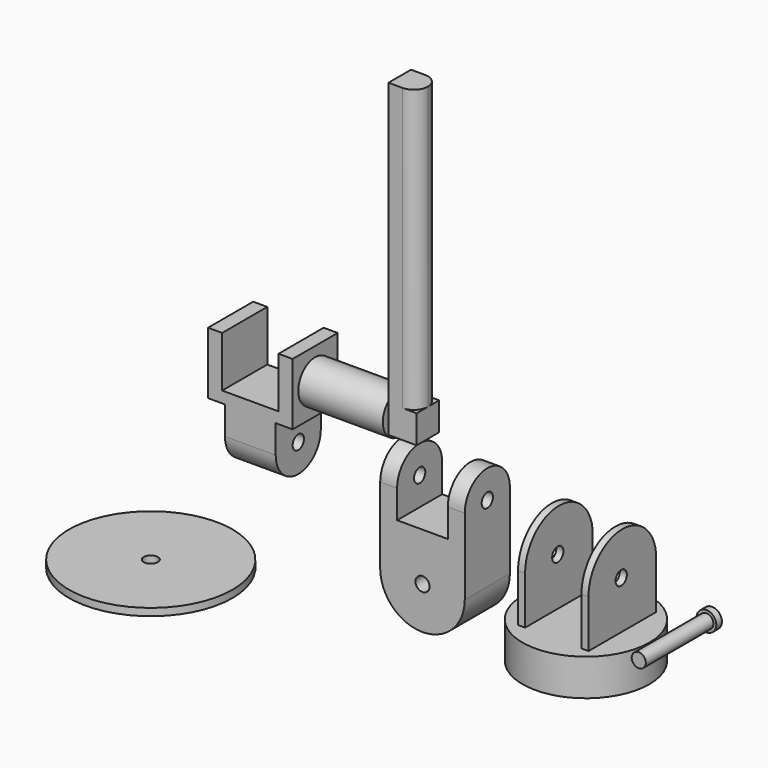
from build123d import *

# Parameters (mm, degrees)
F0_R      = 28.575
F1_DEPTH  = 16.51
F2_W      = 3.175
F2_H      = 38.1
F3_DEPTH  = 21.59
F5_DEPTH  = 3.175
F7_DEPTH  = 3.175
F8_R      = 3.175
F9_DEPTH  = 25.4
F10_R     = 3.175
F11_DEPTH = 25.4
F12_W     = 38.1
F12_H     = 34.29
F13_DEPTH = 25.4
F14_R     = 3.175
F15_DEPTH = 25.4
F16_W     = 22.86
F16_H     = 12.7
F17_DEPTH = 25.4
F19_DEPTH = 7.62
F21_DEPTH = 7.62
F22_R     = 3.175
F23_DEPTH = 12.7
F24_R     = 3.175
F25_DEPTH = 25.4
F26_W     = 22.86
F26_H     = 12.7
F27_DEPTH = 25.4
F29_DEPTH = 22.86
F30_R     = 3.175
F31_DEPTH = 25.4
F32_W     = 38.1
F32_H     = 5.08
F33_DEPTH = 25.4
F34_W     = 6.35
F34_H     = 25.4
F35_DEPTH = 22.86
F36_W     = 6.35
F36_H     = 25.4
F37_DEPTH = 22.86
F38_R     = 36.83
F39_DEPTH = 3.302
F40_R     = 3.175
F41_DEPTH = 25.4
F42_R     = 4.445
F43_DEPTH = 3.175
F44_R     = 3.175
F45_DEPTH = 38.1
F46_R     = 9.525
F47_DEPTH = 38.1
F48_W     = 12.7
F48_H     = 12.7
F49_DEPTH = 12.7
F51_DEPTH = 127


with BuildPart() as f1:
    # F0 (on Top) → F1 (new body)
    with BuildSketch(Plane.XY):
        Circle(F0_R)
    extrude(amount=F1_DEPTH)

    # F2 (on face) → F3 (join)
    with BuildSketch(Plane.XY.offset(16.51)):
        with Locations((-14.2875, 0.635)):
            Rectangle(F2_W, F2_H)
        with Locations((14.2875, 0.635)):
            Rectangle(F2_W, F2_H)
    extrude(amount=F3_DEPTH)

    # F4 (on face) → F5 (join)
    with BuildSketch(Plane(origin=(-15.875, 0, 0), x_dir=(0, -1, 0), z_dir=(-1, 0, 0))):
        with BuildLine():
            Line((-19.685, 38.1), (18.415, 38.1))
            ThreePointArc((18.415, 38.1), (-0.635, 57.15), (-19.685, 38.1))
        make_face()
    extrude(amount=-F5_DEPTH)

    # F6 (on face) → F7 (join)
    with BuildSketch(Plane.YZ.offset(15.875)):
        with BuildLine():
            Line((-18.415, 38.1), (19.685, 38.1))
            ThreePointArc((19.685, 38.1), (0.635, 57.15), (-18.415, 38.1))
        make_face()
    extrude(amount=-F7_DEPTH)

    # F8 (on face) → F9 (cut)
    with BuildSketch(Plane(origin=(-15.875, 0, 0), x_dir=(0, -1, 0), z_dir=(-1, 0, 0))):
        with Locations((0, 38.1)):
            Circle(F8_R)
    extrude(amount=-F9_DEPTH, mode=Mode.SUBTRACT)

    # F10 (on face) → F11 (cut)
    with BuildSketch(Plane.YZ.offset(15.875)):
        with Locations((0, 38.1)):
            Circle(F10_R)
    extrude(amount=-F11_DEPTH, mode=Mode.SUBTRACT)


with BuildPart() as f13:
    # F12 (on Front) → F13 (new body)
    with BuildSketch(Plane.XZ):
        with Locations((-53.339999, 40.575786)):
            Rectangle(F12_W, F12_H)
        with BuildLine():
            Line((-34.289999, 23.430786), (-72.389999, 23.430786))
            ThreePointArc((-72.389999, 23.430786), (-53.339999, 4.380786), (-34.289999, 23.430786))
        make_face()
    extrude(amount=F13_DEPTH)

    # F14 (on face) → F15 (cut)
    with BuildSketch(Plane.XZ.offset(25.4)):
        with Locations((-53.339999, 23.430786)):
            Circle(F14_R)
    extrude(amount=-F15_DEPTH, mode=Mode.SUBTRACT)

    # F16 (on face) → F17 (cut)
    with BuildSketch(Plane.XZ.offset(25.4)):
        with Locations((-53.339999, 51.370786)):
            Rectangle(F16_W, F16_H)
    extrude(amount=-F17_DEPTH, mode=Mode.SUBTRACT)

    # F18 (on face) → F19 (join)
    with BuildSketch(Plane(origin=(-72.389999, 0, 0), x_dir=(0, -1, 0), z_dir=(-1, 0, 0))):
        with BuildLine():
            Line((0, 57.720786), (25.4, 57.720786))
            ThreePointArc((25.4, 57.720786), (12.7, 70.420786), (0, 57.720786))
        make_face()
    extrude(amount=-F19_DEPTH)

    # F20 (on face) → F21 (join)
    with BuildSketch(Plane.YZ.offset(-34.289999)):
        with BuildLine():
            Line((-25.4, 57.720786), (0, 57.720786))
            ThreePointArc((0, 57.720786), (-12.7, 70.420786), (-25.4, 57.720786))
        make_face()
    extrude(amount=-F21_DEPTH)

    # F22 (on face) → F23 (cut)
    with BuildSketch(Plane(origin=(-72.389999, 0, 0), x_dir=(0, -1, 0), z_dir=(-1, 0, 0))):
        with Locations((12.7, 57.720786)):
            Circle(F22_R)
    extrude(amount=-F23_DEPTH, mode=Mode.SUBTRACT)

    # F24 (on face) → F25 (cut)
    with BuildSketch(Plane.YZ.offset(-34.289999)):
        with Locations((-12.7, 57.720786)):
            Circle(F24_R)
    extrude(amount=-F25_DEPTH, mode=Mode.SUBTRACT)


with BuildPart() as f27:
    # F26 (on Front) → F27 (new body)
    with BuildSketch(Plane.XZ):
        with Locations((-130.899448, 59.395756)):
            Rectangle(F26_W, F26_H)
    extrude(amount=F27_DEPTH)

    # F28 (on face) → F29 (join)
    with BuildSketch(Plane.YZ.offset(-119.469448)):
        with BuildLine():
            Line((0, 53.045756), (-25.4, 53.045756))
            ThreePointArc((-25.4, 53.045756), (-12.7, 40.345756), (0, 53.045756))
        make_face()
    extrude(amount=-F29_DEPTH)

    # F30 (on face) → F31 (cut)
    with BuildSketch(Plane(origin=(-142.329448, 0, 0), x_dir=(0, -1, 0), z_dir=(-1, 0, 0))):
        with Locations((12.7, 53.045756)):
            Circle(F30_R)
    extrude(amount=-F31_DEPTH, mode=Mode.SUBTRACT)

    # F32 (on face) → F33 (join)
    with BuildSketch(Plane.XZ.offset(25.4)):
        with Locations((-130.899448, 68.285756)):
            Rectangle(F32_W, F32_H)
    extrude(amount=-F33_DEPTH)

    # F34 (on face) → F35 (join)
    with BuildSketch(Plane.XY.offset(70.825756)):
        with Locations((-146.774448, -12.7)):
            Rectangle(F34_W, F34_H)
    extrude(amount=F35_DEPTH)

    # F36 (on face) → F37 (join)
    with BuildSketch(Plane.XY.offset(70.825756)):
        with Locations((-115.024448, -12.7)):
            Rectangle(F36_W, F36_H)
    extrude(amount=F37_DEPTH)


with BuildPart() as f39:
    # F38 (on Top) → F39 (new body)
    with BuildSketch(Plane.XY):
        with Locations((-163.799211, -40.363897)):
            Circle(F38_R)
    extrude(amount=F39_DEPTH)

    # F40 (on face) → F41 (cut)
    with BuildSketch(Plane.XY.offset(3.302)):
        with Locations((-163.799211, -40.363897)):
            Circle(F40_R)
    extrude(amount=-F41_DEPTH, mode=Mode.SUBTRACT)


with BuildPart() as f43:
    # F42 (on Front) → F43 (new body)
    with BuildSketch(Plane.XZ):
        with Locations((56.808472, 35.484426)):
            Circle(F42_R)
    extrude(amount=F43_DEPTH)

    # F44 (on face) → F45 (join)
    with BuildSketch(Plane.XZ.offset(3.175)):
        with Locations((56.808472, 35.484426)):
            Circle(F44_R)
    extrude(amount=F45_DEPTH)


with BuildPart() as f47:
    # F46 (on face) → F47 (new body)
    with BuildSketch(Plane.YZ.offset(-111.849448)):
        with Locations((-12.7, 79.715756)):
            Circle(F46_R)
    extrude(amount=F47_DEPTH)

    # F48 (on face) → F49 (join)
    with BuildSketch(Plane.YZ.offset(-73.749448)):
        with Locations((-12.7, 79.715756)):
            Rectangle(F48_W, F48_H)
    extrude(amount=F49_DEPTH)

    # F50 (on face) → F51 (join)
    with BuildSketch(Plane.XY.offset(86.065756)):
        with BuildLine():
            ThreePointArc((-67.399448, -19.05), (-62.90932, -17.190128), (-61.049448, -12.7))
            ThreePointArc((-61.049448, -12.7), (-62.90932, -8.209872), (-67.399448, -6.35))
            ThreePointArc((-67.399448, -6.35), (-71.889576, -8.209872), (-73.749448, -12.7))
            ThreePointArc((-73.749448, -12.7), (-71.889576, -17.190128), (-67.399448, -19.05))
        make_face()
        with BuildLine():
            Line((-73.749448, -19.05), (-67.399448, -19.05))
            ThreePointArc((-67.399448, -19.05), (-71.889576, -17.190128), (-73.749448, -12.7))
            Line((-73.749448, -12.7), (-73.749448, -19.05))
        make_face()
        with BuildLine():
            ThreePointArc((-73.749448, -12.7), (-71.889576, -8.209872), (-67.399448, -6.35))
            Line((-67.399448, -6.35), (-73.749448, -6.35))
            Line((-73.749448, -6.35), (-73.749448, -12.7))
        make_face()
    extrude(amount=F51_DEPTH)


solid = Compound([f1.part, f13.part, f27.part, f39.part, f43.part, f47.part])
